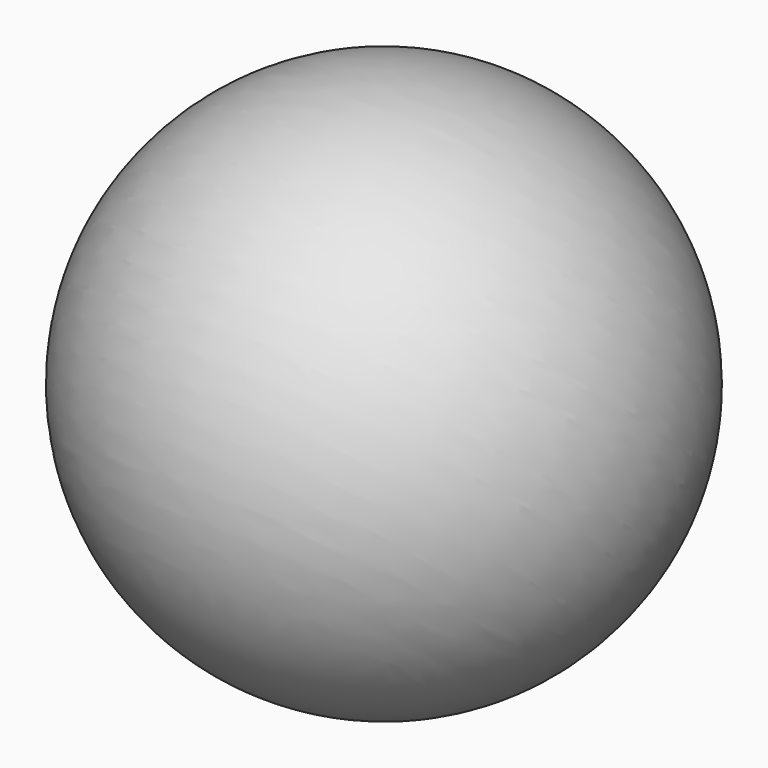
from build123d import *


with BuildPart() as f1:
    # F0 (on Right) → F1 (revolve)
    with BuildSketch(Plane.YZ):
        with BuildLine():
            ThreePointArc((-41.4471488048, -47.0966925006), (25.8426370046, -57.1674968946), (62.7372663458, 0))
            ThreePointArc((62.7372663458, 0), (57.1330085204, 25.9187948399), (41.3214806388, 47.2069891686))
            Line((41.3214806388, 47.2069891686), (-41.4471488048, -47.0966925006))
        make_face()
    revolve(axis=Axis((0, -1.5690326691, -1.6609616578), (0, -0.6596454369, -0.7515769406)))


solid = f1.part
